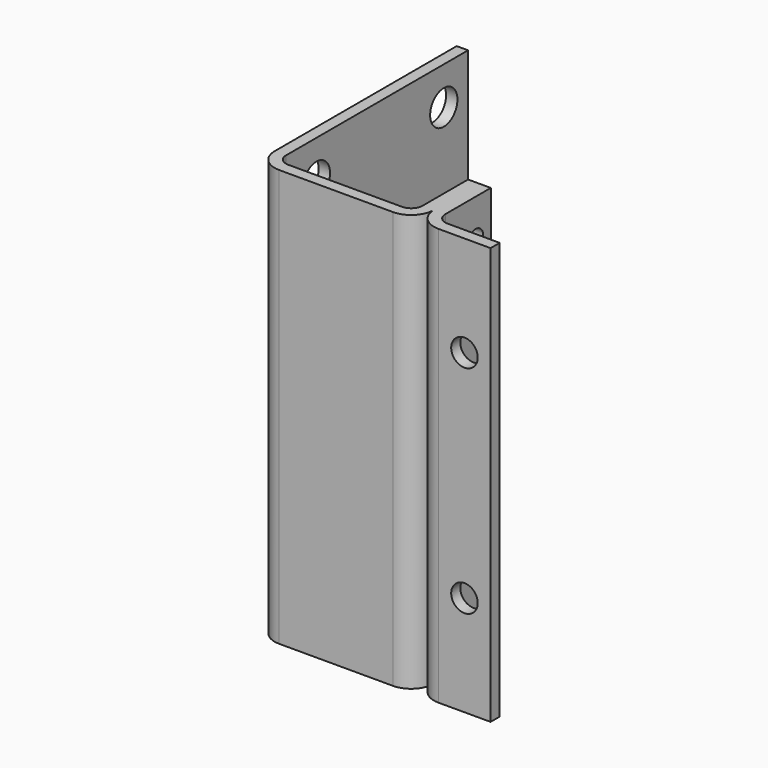
from build123d import *

# Parameters (mm, degrees)
F1_DEPTH      = 55
F1_DEPTH_BACK = 55
F2_R          = 2.5
F3_DEPTH      = 45.001
F4_R          = 4.5
F5_DEPTH      = 3
F6_R          = 4.5
F7_DEPTH      = 3
F8_R          = 3.5
F9_DEPTH      = 3


with BuildPart() as f1:
    # F0 (on Top) → F1 (new body, two sides)
    with BuildSketch(Plane.XY) as f1_sk:
        with BuildLine():
            Line((-39, 45), (-42, 45))
            Line((-42, 45), (-42, -15))
            ThreePointArc((-42, -15), (-40.242641, -19.242641), (-36, -21))
            Line((-36, -21), (-6, -21))
            ThreePointArc((-6, -21), (-1.757359, -19.242641), (0, -15))
            ThreePointArc((0, -15), (1.757359, -19.242641), (6, -21))
            Line((6, -21), (19.739676, -21))
            Line((19.739676, -21), (19.739676, -18))
            Line((19.739676, -18), (6, -18))
            ThreePointArc((6, -18), (3.87868, -17.12132), (3, -15))
            Line((3, -15), (3, 0))
            Line((3, 0), (-3, 0))
            Line((-3, 0), (-3, -15))
            ThreePointArc((-3, -15), (-3.87868, -17.12132), (-6, -18))
            Line((-6, -18), (-36, -18))
            ThreePointArc((-36, -18), (-38.12132, -17.12132), (-39, -15))
            Line((-39, -15), (-39, 45))
        make_face()
    extrude(amount=F1_DEPTH)
    extrude(f1_sk.sketch, amount=-F1_DEPTH_BACK)

    # F2 (on face) → F3 (cut, through all)
    with BuildSketch(Plane.YZ.offset(3)):
        with Locations((-5, 45)):
            Circle(F2_R)
        with Locations((-5, 0)):
            Circle(F2_R)
        with Locations((-5, -45)):
            Circle(F2_R)
    extrude(amount=-F3_DEPTH, mode=Mode.SUBTRACT)

    # F4 (on face) → F5 (cut)
    with BuildSketch(Plane.YZ.offset(-39)):
        with Locations((-5, 45)):
            Circle(F4_R)
        with Locations((-5, 0)):
            Circle(F4_R)
        with Locations((-5, -45)):
            Circle(F4_R)
    extrude(amount=-F5_DEPTH, mode=Mode.SUBTRACT)

    # F6 (on face) → F7 (cut)
    with BuildSketch(Plane.YZ.offset(-39)):
        with Locations((37, 0)):
            Circle(F6_R)
        with Locations((37, -45)):
            Circle(F6_R)
        with Locations((37, 45)):
            Circle(F6_R)
    extrude(amount=-F7_DEPTH, mode=Mode.SUBTRACT)

    # F8 (on face) → F9 (cut)
    with BuildSketch(Plane.XZ.offset(21)):
        with Locations((12.85351, 28.5)):
            Circle(F8_R)
        with Locations((12.85351, -28.5)):
            Circle(F8_R)
    extrude(amount=-F9_DEPTH, mode=Mode.SUBTRACT)


solid = f1.part
